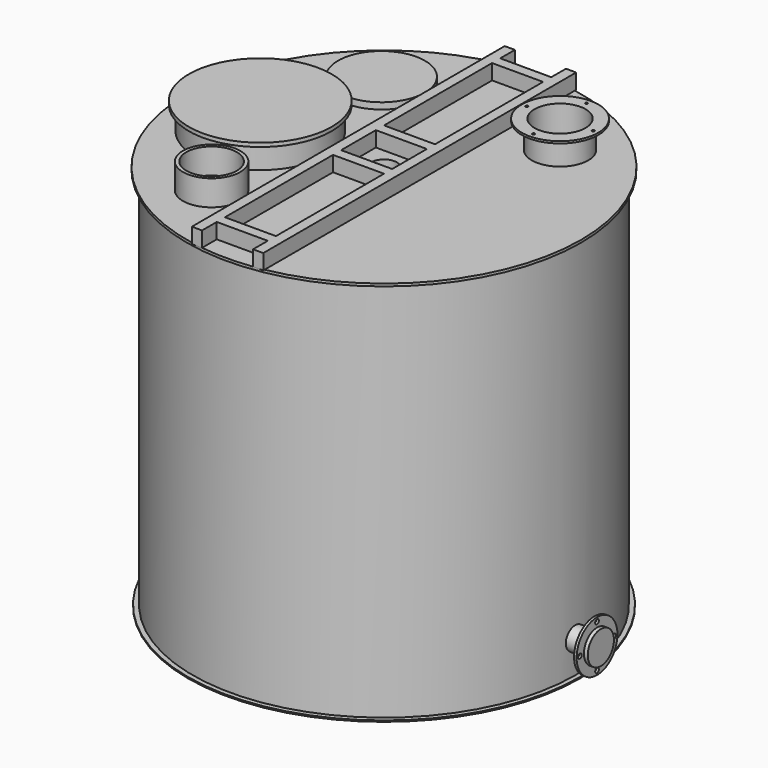
from build123d import *

# Parameters (mm, degrees)
F2_W      = 200
F2_H      = 529.5
F2_H_2    = 170
F2_H_3    = 529.5044031185
F3_DEPTH  = 60
F4_R      = 260
F5_DEPTH  = 90
F6_R      = 170
F7_DEPTH  = 25
F8_R      = 280
F9_DEPTH  = 15
F10_R     = 111
F11_DEPTH = 100
F12_R     = 150
F13_DEPTH = 8
F14_R     = 5
F15_DEPTH = 25
F16_R     = 100
F17_DEPTH = 200
F18_R     = 50
F19_DEPTH = 1000
F20_R     = 112.5
F20_R_2   = 99
F21_DEPTH = 100
F22_R     = 45
F23_DEPTH = 850
F25_R     = 100
F26_DEPTH = 10
F27_R     = 64.1521691024
F27_R_2   = 45
F28_DEPTH = 15
F29_R     = 9
F30_DEPTH = 25
F31_R     = 32.5
F32_DEPTH = 850
F34_R     = 82.5
F34_R_2   = 7
F35_DEPTH = 10
F36_R     = 50
F37_DEPTH = 25


with BuildPart() as f1:
    # F0 (on Front) → F1 (revolve)
    with BuildSketch(Plane.XZ):
        Polygon((0, 1515), (0, 0), (750, 0), (768.5, 0), (768.5, 5), (750, 5), (750, 1505), (773, 1505), (773, 1515), (750, 1515), align=None)
    revolve(axis=Axis((0, 0, 757.5), (0, 0, 1)))

    # F2 (on face) → F3 (join)
    with BuildSketch(Plane.XY.offset(1515)):
        Polygon((-100, 766.5), (-140, 766.5), (-140, -766.5), (-100, -766.5), (-100, -694.5), (100, -694.5), (100, -766.4955968815), (140, -766.4955968815), (140, 766.5044031185), (100, 766.5044031185), (100, 694.5044031185), (-100, 694.5044031185), align=None)
        with Locations((0, -389.75)):
            Rectangle(F2_W, F2_H, mode=Mode.SUBTRACT)
        Rectangle(F2_W, F2_H_2, mode=Mode.SUBTRACT)
        with Locations((0, 389.7522015592)):
            Rectangle(F2_W, F2_H_3, mode=Mode.SUBTRACT)
    extrude(amount=F3_DEPTH)

    # F4 (on face) → F5 (join)
    with BuildSketch(Plane.XY.offset(1515)):
        with Locations((-445, -50)):
            Circle(F4_R)
    extrude(amount=F5_DEPTH)

    # F6 (on face) → F7 (join)
    with BuildSketch(Plane.XY.offset(1515)):
        with Locations((-350, 425)):
            Circle(F6_R)
    extrude(amount=F7_DEPTH)

    # F8 (on face) → F9 (join)
    with BuildSketch(Plane.XY.offset(1605)):
        with Locations((-445, -50)):
            Circle(F8_R)
    extrude(amount=F9_DEPTH)

    # F10 (on face) → F11 (join)
    with BuildSketch(Plane.XY.offset(1515)):
        with Locations((350, 425)):
            Circle(F10_R)
    extrude(amount=F11_DEPTH)

    # F12 (on face) → F13 (join)
    with BuildSketch(Plane.XY.offset(1615)):
        with Locations((350, 425)):
            Circle(F12_R)
    extrude(amount=F13_DEPTH)

    # F14 (on face) → F15 (cut)
    with BuildSketch(Plane.XY.offset(1623)):
        with Locations((349.8037939217, 554.9998519352)):
            Circle(F14_R)
        with Locations((220.0001480648, 424.8037939217)):
            Circle(F14_R)
        with Locations((350.1962060783, 295.0001480648)):
            Circle(F14_R)
        with Locations((479.9998519352, 425.1962060783)):
            Circle(F14_R)
    extrude(amount=-F15_DEPTH, mode=Mode.SUBTRACT)

    # F16 (on face) → F17 (cut)
    with BuildSketch(Plane.XY.offset(1623)):
        with Locations((350, 425)):
            Circle(F16_R)
    extrude(amount=-F17_DEPTH, mode=Mode.SUBTRACT)

    # F18 (on face) → F19 (cut)
    with BuildSketch(Plane.XY.offset(1515)):
        Circle(F18_R)
    extrude(amount=-F19_DEPTH, mode=Mode.SUBTRACT)

    # F20 (on face) → F21 (join)
    with BuildSketch(Plane.XY.offset(1515)):
        with Locations((-315, -451)):
            Circle(F20_R)
        with Locations((-315, -451)):
            Circle(F20_R_2, mode=Mode.SUBTRACT)
    extrude(amount=F21_DEPTH)

    # F22 (on Right) → F23 (join)
    with BuildSketch(Plane.YZ):
        with Locations((0, 133)):
            Circle(F22_R)
    extrude(amount=F23_DEPTH)

    # F25 (on offset) → F26 (join)
    with BuildSketch(Plane.YZ.offset(825)):
        with Locations((0, 133)):
            Circle(F25_R)
    extrude(amount=F26_DEPTH)

    # F27 (on face) → F28 (join)
    with BuildSketch(Plane.YZ.offset(835)):
        with Locations((0, 133)):
            Circle(F27_R)
        with Locations((0, 133)):
            Circle(F27_R_2, mode=Mode.SUBTRACT)
    extrude(amount=F28_DEPTH)

    # F29 (on face) → F30 (cut)
    with BuildSketch(Plane.YZ.offset(835)):
        with Locations((0, 217.1521691024)):
            Circle(F29_R)
        with Locations((-84.1521691024, 133)):
            Circle(F29_R)
        with Locations((0, 48.8478308976)):
            Circle(F29_R)
        with Locations((84.1521691024, 133)):
            Circle(F29_R)
    extrude(amount=-F30_DEPTH, mode=Mode.SUBTRACT)

    # F31 (on Front) → F32 (join)
    with BuildSketch(Plane.XZ):
        with Locations((0, 1400)):
            Circle(F31_R)
    extrude(amount=-F32_DEPTH)

    # F34 (on offset) → F35 (join)
    with BuildSketch(Plane(origin=(0, 825, 0), x_dir=(-1, 0, 0), z_dir=(0, 1, 0))):
        with Locations((0, 1400)):
            Circle(F34_R)
        with Locations((0, 1337.5)):
            Circle(F34_R_2, mode=Mode.SUBTRACT)
        with Locations((-62.5, 1400)):
            Circle(F34_R_2, mode=Mode.SUBTRACT)
        with Locations((62.5, 1400)):
            Circle(F34_R_2, mode=Mode.SUBTRACT)
        with Locations((0, 1462.5)):
            Circle(F34_R_2, mode=Mode.SUBTRACT)
    extrude(amount=F35_DEPTH)

    # F36 (on face) → F37 (join)
    with BuildSketch(Plane(origin=(0, 850, 0), x_dir=(-1, 0, 0), z_dir=(0, 1, 0))):
        with Locations((0, 1400)):
            Circle(F36_R)
    extrude(amount=-F37_DEPTH)


solid = f1.part
